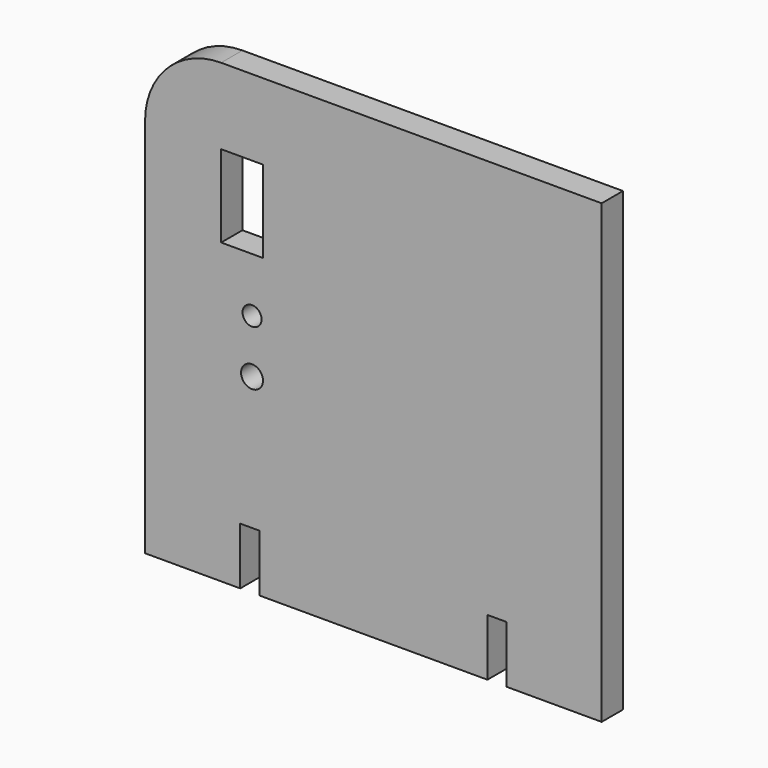
from build123d import *

# Parameters (mm, degrees)
F0_R     = 2.885
F0_R_2   = 2.5
F0_W     = 11
F0_H     = 21.6
F1_DEPTH = 7


with BuildPart() as f1:
    # F0 (on Front) → F1 (new body)
    with BuildSketch(Plane.XZ):
        with BuildLine():
            Line((29.752474, -53.311787), (29.752474, 66.688213))
            Line((29.752474, 66.688213), (-70.247526, 66.688213))
            ThreePointArc((-70.247526, 66.688213), (-84.389661, 60.830349), (-90.247526, 46.688213))
            Line((-90.247526, 46.688213), (-90.247526, -53.311787))
            Line((-90.247526, -53.311787), (-65.233078, -53.311787))
            Line((-65.233078, -53.311787), (-65.233078, -38.311787))
            Line((-65.233078, -38.311787), (-60.233078, -38.311787))
            Line((-60.233078, -38.311787), (-60.233078, -53.311787))
            Line((-60.233078, -53.311787), (-0.261973, -53.311787))
            Line((-0.261973, -53.311787), (-0.261973, -38.311787))
            Line((-0.261973, -38.311787), (4.738027, -38.311787))
            Line((4.738027, -38.311787), (4.738027, -53.311787))
            Line((4.738027, -53.311787), (29.752474, -53.311787))
        make_face()
        with Locations((-62.132526, -3.311787)):
            Circle(F0_R, mode=Mode.SUBTRACT)
        with Locations((-62.132526, 10.759509)):
            Circle(F0_R_2, mode=Mode.SUBTRACT)
        with Locations((-64.747526, 35.888213)):
            Rectangle(F0_W, F0_H, mode=Mode.SUBTRACT)
    extrude(amount=F1_DEPTH)


solid = f1.part
